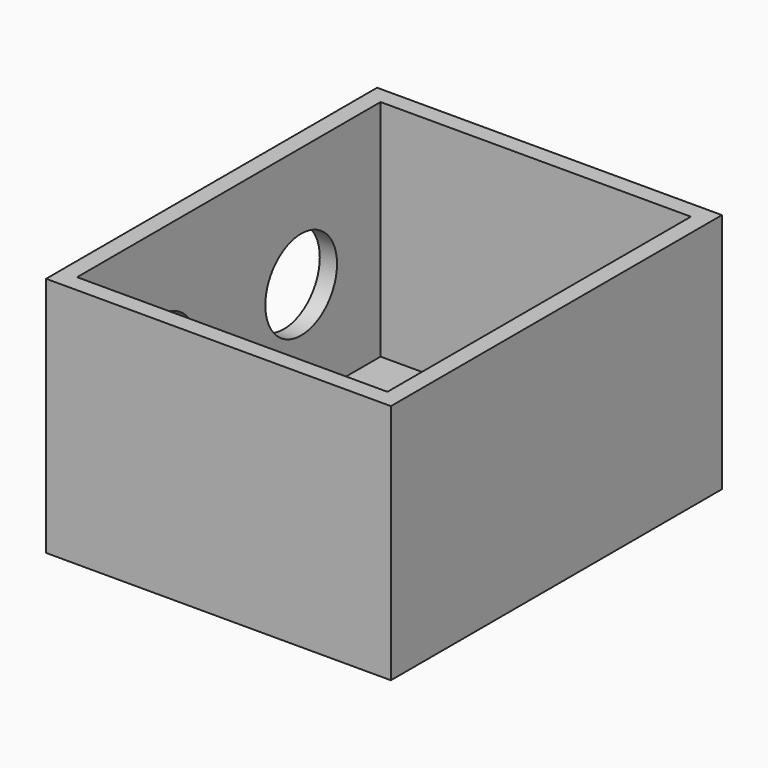
from build123d import *

# Parameters (mm, degrees)
F0_W     = 2.5
F0_H     = 55
F1_DEPTH = 35
F0_W_2   = 45
F2_DEPTH = 2.5
F4_D     = 13
F4_DEPTH = 12
F5_D     = 13
F5_DEPTH = 12


with BuildPart() as f1:
    # F0 (on Top) → F1 (new body)
    with BuildSketch(Plane.XY):
        Polygon((-47.320926, 2.681236), (-49.820926, 2.681236), (-49.820926, 0.181236), (0.179074, 0.181236), (0.179074, 2.681236), (-2.320926, 2.681236), align=None)
        with Locations((-48.570926, 30.181236)):
            Rectangle(F0_W, F0_H)
        Polygon((0.179074, 60.181236), (-49.820926, 60.181236), (-49.820926, 57.681236), (-47.320926, 57.681236), (-2.320926, 57.681236), (0.179074, 57.681236), align=None)
        with Locations((-1.070926, 30.181236)):
            Rectangle(F0_W, F0_H)
    extrude(amount=F1_DEPTH)

    # F0 (on Top) → F2 (join)
    with BuildSketch(Plane.XY):
        with Locations((-24.820926, 30.181236)):
            Rectangle(F0_W_2, F0_H)
    extrude(amount=F2_DEPTH)

    # F4
    with Locations(Plane(origin=(-49.820926, 0, 0), x_dir=(0, -1, 0), z_dir=(-1, 0, 0))):
        with Locations((-43.28923, 17.549016)):
            Hole(F4_D / 2, depth=F4_DEPTH)

    # F5
    with Locations(Plane(origin=(-49.820926, 0, 0), x_dir=(0, -1, 0), z_dir=(-1, 0, 0))):
        with Locations((-17.78923, 17.549016)):
            Hole(F5_D / 2, depth=F5_DEPTH)


solid = f1.part
